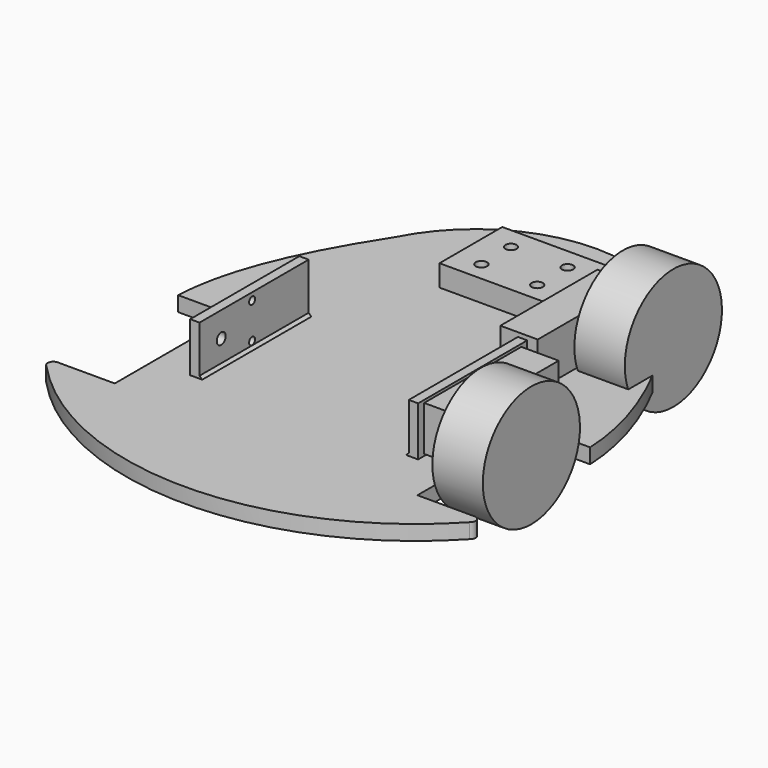
from build123d import *

# Parameters (mm, degrees)
CYLINDER_R             = 32.5
CYLINDER_DEPTH         = 27
CYLINDER001_R          = 2.5
CYLINDER001_DEPTH      = 10
CYLINDER002_R          = 1.5
CYLINDER002_DEPTH      = 30
BOX_W                  = 20
BOX_H                  = 65
BOX_DEPTH              = 24
FUSION_PLACEMENT_ANGLE = 180
SKETCH004_W            = 58.4
SKETCH004_H            = 42
SKETCH004_R            = 3
EXTRUDE004_DEPTH       = 11.5
EXTRUDE003_DEPTH       = 8
SKETCH003_W            = 73
SKETCH003_H            = 27
SKETCH003_R            = 3
SKETCH003_R_2          = 2
EXTRUDE002_DEPTH       = 5
SKETCH001_R            = 3
EXTRUDE_DEPTH          = 8
CHAMFER_SIZE           = 1.4


with BuildPart() as obj1:
    # Cylinder → Cylinder (new body)
    with BuildSketch(Plane(origin=(-90, 60, 0), x_dir=(0, 0, -1), z_dir=(1, 0, 0))):
        Circle(CYLINDER_R)
    extrude(amount=CYLINDER_DEPTH)


with BuildPart() as part_mirroring001:
    # Part__Mirroring001: instance of obj1
    add(obj1.part.mirror(Plane(origin=(0, 0, 0), x_dir=(0, -1, 0), z_dir=(1, 0, 0))))


with BuildPart() as cylinder:
    # Cylinder001 → Cylinder001 (new body)
    with BuildSketch(Plane.ZY.offset(20)):
        Circle(CYLINDER001_R)
    extrude(amount=CYLINDER001_DEPTH)


with BuildPart() as cylinder002:
    # Cylinder002 → Cylinder002 (new body)
    with BuildSketch(Plane(origin=(4, 20.63, -9.5), x_dir=(0, 0, 1), z_dir=(-1, 0, 0))):
        Circle(CYLINDER002_R)
    extrude(amount=CYLINDER002_DEPTH)


with BuildPart() as part_mirroring:
    # Part__Mirroring: instance of Cylinder002
    add(cylinder002.part.mirror(Plane(origin=(0, 0, 0), x_dir=(0, 1, 0), z_dir=(0, 0, 1))))


with BuildPart() as motor:
    # Box → Box (new body)
    with BuildSketch(Plane(origin=(-19, -10.5, -12), x_dir=(1, 0, 0), z_dir=(0, 0, 1))):
        with Locations((10, 32.5)):
            Rectangle(BOX_W, BOX_H)
    extrude(amount=BOX_DEPTH)

    # Cut: cut Cylinder002
    add(cylinder002.part, mode=Mode.SUBTRACT)

    # Cut001: cut Part__Mirroring
    add(part_mirroring.part, mode=Mode.SUBTRACT)


with BuildPart() as motor_1:
    # Cut001 placement: moved
    add(motor.part.moved(Location((-1, 0, 0))))

    # Fusion: union Cylinder
    add(cylinder.part)


with BuildPart() as motor_2:
    # Fusion placement: moved
    add(motor_1.part.moved(Location((-61, 60, 0))).rotate(Axis((-61, 60, 0), (0, 0, 1)), FUSION_PLACEMENT_ANGLE))


with BuildPart() as part_mirroring002:
    # Part__Mirroring002: instance of Motor
    add(motor_2.part.mirror(Plane(origin=(0, 0, 0), x_dir=(0, -1, 0), z_dir=(1, 0, 0))))


with BuildPart() as part_mirroring003:
    # Part__Mirroring003: instance of obj1
    add(obj1.part.mirror(Plane(origin=(0, 0, 0), x_dir=(1, 0, 0), z_dir=(0, 1, 0))))


with BuildPart() as part_mirroring003_1:
    # Part__Mirroring003 placement: moved
    add(part_mirroring003.part.moved(Location((-20, 0, 0))))


with BuildPart() as part_mirroring005:
    # Part__Mirroring005: instance of Part__Mirroring003
    add(part_mirroring003_1.part.mirror(Plane(origin=(0, 0, 0), x_dir=(0, -1, 0), z_dir=(1, 0, 0))))


with BuildPart() as part_mirroring004:
    # Part__Mirroring004: instance of Motor
    add(motor_2.part.mirror(Plane(origin=(0, 0, 0), x_dir=(1, 0, 0), z_dir=(0, 1, 0))))


with BuildPart() as part_mirroring004_1:
    # Part__Mirroring004 placement: moved
    add(part_mirroring004.part.moved(Location((-20, 0, 1))))


with BuildPart() as part_mirroring006:
    # Part__Mirroring006: instance of Part__Mirroring004
    add(part_mirroring004_1.part.mirror(Plane(origin=(0, 0, 0), x_dir=(0, -1, 0), z_dir=(1, 0, 0))))


with BuildPart() as rueda_loca:
    # Sketch004 → Extrude004 (new body)
    with BuildSketch(Plane.XY):
        with Locations((0, 73.522709)):
            Rectangle(SKETCH004_W, SKETCH004_H)
        with Locations((-15.07, 82.702709)):
            Circle(SKETCH004_R, mode=Mode.SUBTRACT)
        with Locations((14.96, 83.045868)):
            Circle(SKETCH004_R, mode=Mode.SUBTRACT)
        with Locations((-14.926029, 62.722709)):
            Circle(SKETCH004_R, mode=Mode.SUBTRACT)
        with Locations((14.983971, 62.675868)):
            Circle(SKETCH004_R, mode=Mode.SUBTRACT)
    extrude(amount=EXTRUDE004_DEPTH)


with BuildPart() as rueda_loca_1:
    # Extrude004 placement: moved
    add(rueda_loca.part.moved(Location((0, 0, -12))))


with BuildPart() as obj2:
    # Sketch → Extrude003 (new body)
    with BuildSketch(Plane.XY):
        with BuildLine():
            Line((-81.281898, -21.061899), (-111.281898, -21.061899))
            add(Edge.make_bspline(
                [(-111.281898, -21.061899), (-110.165, 4.1709), (-99.9944, 37.6737), (-67.388824, 85.455888)],
                knots=[0, 0, 0, 0, 1, 1, 1, 1], degree=3))
            Line((-67.388824, 85.455888), (-81.281898, -21.061899))
        make_face()
    extrude(amount=EXTRUDE003_DEPTH)


with BuildPart() as obj2_1:
    # Extrude003 placement: moved
    add(obj2.part.moved(Location((1, 0, -20))))


with BuildPart() as part_mirroring009:
    # Part__Mirroring009: instance of obj2
    add(obj2_1.part.mirror(Plane(origin=(0, 0, 0), x_dir=(0, -1, 0), z_dir=(1, 0, 0))))


with BuildPart() as obj3:
    # Sketch003 → Extrude002 (new body)
    with BuildSketch(Plane.YZ):
        with Locations((-38.02, -0.061994)):
            Rectangle(SKETCH003_W, SKETCH003_H)
        with Locations((-60.02, 0)):
            Circle(SKETCH003_R, mode=Mode.SUBTRACT)
        with Locations((-39.38, 9.52)):
            Circle(SKETCH003_R_2, mode=Mode.SUBTRACT)
        with Locations((-39.38, -9.52)):
            Circle(SKETCH003_R_2, mode=Mode.SUBTRACT)
    extrude(amount=EXTRUDE002_DEPTH)


with BuildPart() as obj3_1:
    # Extrude002 placement: moved
    add(obj3.part.moved(Location((-61, 0, 1))))


with BuildPart() as part_mirroring008:
    # Part__Mirroring008: instance of obj3
    add(obj3_1.part.mirror(Plane(origin=(0, 0, 0), x_dir=(0, -1, 0), z_dir=(1, 0, 0))))


with BuildPart() as obj4:
    # Sketch001 → Extrude (new body)
    with BuildSketch(Plane.XY):
        with BuildLine():
            Line((81, 40), (81, -100))
            Line((81, -100), (111, -100))
            ThreePointArc((113.280297, -105.457703), (114.266415, -101.840471), (111, -100))
            ThreePointArc((-113.280297, -105.457703), (0, -154.77), (113.280297, -105.457703))
            ThreePointArc((-111, -100), (-114.266415, -101.840471), (-113.280297, -105.457703))
            Line((-81, -100), (-111, -100))
            Line((-81, -100), (-81, 40))
            ThreePointArc((81, 40), (0, 121), (-81, 40))
        make_face()
        with Locations((-15, 82.869685)):
            Circle(SKETCH001_R, mode=Mode.SUBTRACT)
        with Locations((-15, 62.869685)):
            Circle(SKETCH001_R, mode=Mode.SUBTRACT)
        with Locations((15, 82.869685)):
            Circle(SKETCH001_R, mode=Mode.SUBTRACT)
        with Locations((15, 62.869685)):
            Circle(SKETCH001_R, mode=Mode.SUBTRACT)
    extrude(amount=EXTRUDE_DEPTH)


with BuildPart() as obj4_1:
    # Extrude placement: moved
    add(obj4.part.moved(Location((0, 0, -20))))

    # Fusion001: union obj3, Part__Mirroring008
    add(obj3_1.part)
    add(part_mirroring008.part)

    # Chamfer
    chamfer_edges = [obj4_1.edges().sort_by_distance(p)[0] for p in [
        (-56, -38.02, -12),
        (56, -38.02, -12),
    ]]
    chamfer(chamfer_edges, length=CHAMFER_SIZE)

    # Fusion002: union obj2, Part__Mirroring009
    add(obj2_1.part)
    add(part_mirroring009.part)

    # Fusion003: union rueda_loca
    add(rueda_loca_1.part)


solid = Compound([part_mirroring001.part, part_mirroring002.part, part_mirroring005.part, part_mirroring006.part, obj4_1.part])
